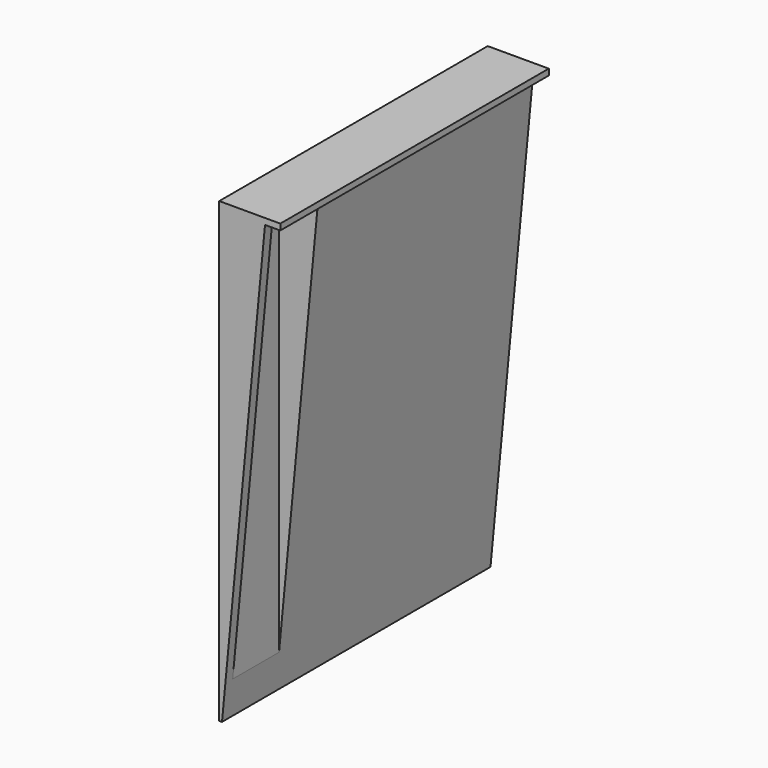
from build123d import *

# Parameters (mm, degrees)
F1_DEPTH = 110
F3_W     = 19
F3_H     = 148
F4_DEPTH = 18.001


with BuildPart() as f1:
    # F0 (on Front) → F1 (new body)
    with BuildSketch(Plane.XZ):
        Polygon((20, 17.5948), (0, 17.5948), (0, -132.4052), (0.90309, -132.4052), (15, 15.5948), (20, 15.5948), align=None)
    extrude(amount=F1_DEPTH)

    # F3 (on offset) → F4 (cut, through all)
    with BuildSketch(Plane.YZ.offset(2)):
        with Locations((-97.5, -58.4052)):
            Rectangle(F3_W, F3_H)
    extrude(amount=F4_DEPTH, mode=Mode.SUBTRACT)


solid = f1.part
